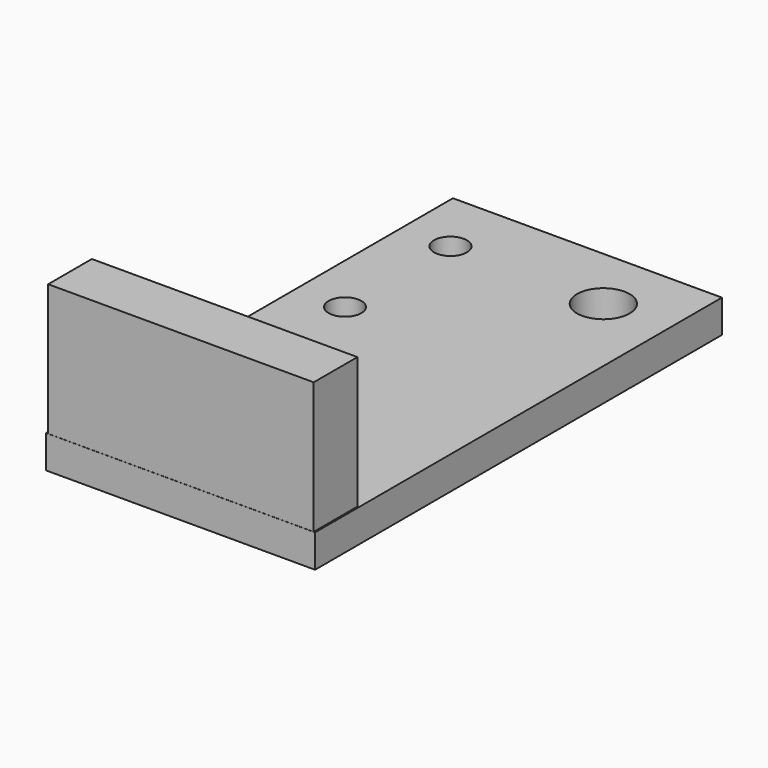
from build123d import *

# Parameters (mm, degrees)
F1_W     = 51.249427
F1_H     = 10.54919
F2_DEPTH = 25.4
F0_W     = 51.912584
F0_H     = 98.145824
F3_DEPTH = 6.35
F4_R     = 3.175
F4_R_2   = 5.08
F5_DEPTH = 25.4


with BuildPart() as f2:
    # F1 (on Top) → F2 (new body)
    with BuildSketch(Plane.XY):
        with Locations((9.770837, -35.216718)):
            Rectangle(F1_W, F1_H)
    extrude(amount=F2_DEPTH)

    # F0 (on Top) → F3 (join)
    with BuildSketch(Plane.XY):
        with Locations((9.720873, 8.55908)):
            Rectangle(F0_W, F0_H)
    extrude(amount=-F3_DEPTH)

    # F4 (on face) → F5 (cut)
    with BuildSketch(Plane.XY):
        with Locations((-6.719237, 45.145492)):
            Circle(F4_R)
        with Locations((-6.752275, 19.745523)):
            Circle(F4_R)
        with Locations((-6.710419, -6.288796)):
            Circle(F4_R)
        with Locations((22.977165, 44.904832)):
            Circle(F4_R_2)
    extrude(amount=-F5_DEPTH, mode=Mode.SUBTRACT)


solid = f2.part
